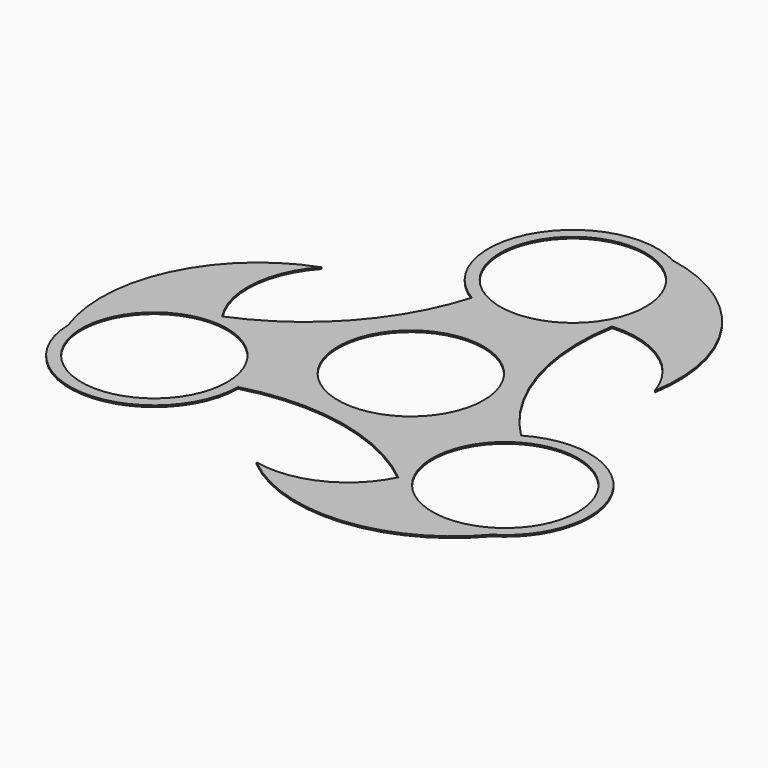
from build123d import *

# Parameters (mm, degrees)
F0_R     = 11.2
F1_DEPTH = 0.25


with BuildPart() as f1:
    # F0 (on Top) → F1 (new body)
    with BuildSketch(Plane.XY):
        with BuildLine():
            ThreePointArc((11.243032, 24.633988), (12.553076, 27.781021), (13, 31.160414))
            ThreePointArc((13, 31.160414), (11.172924, 37.806147), (6.205266, 42.58384))
            ThreePointArc((6.205266, 42.58384), (-11.321974, 37.548911), (-6.570071, 19.942831))
            ThreePointArc((-6.570071, 19.942831), (3.310722, 18.589053), (11.243032, 24.633988))
        make_face()
        with Locations((0, 31.160414)):
            Circle(F0_R, mode=Mode.SUBTRACT)
        with BuildLine():
            ThreePointArc((6.205266, 42.58384), (11.172924, 37.806147), (13, 31.160414))
            ThreePointArc((13, 31.160414), (12.553076, 27.781021), (11.243032, 24.633988))
            ThreePointArc((11.243032, 24.633988), (20.16491, 22.206844), (25.685808, 14.789929))
            ThreePointArc((25.685808, 14.789929), (21.662594, 32.693926), (6.205266, 42.58384))
        make_face()
        with BuildLine():
            ThreePointArc((20.433129, -4.352398), (12.296612, 9.017977), (11.243032, 24.633988))
            ThreePointArc((11.243032, 24.633988), (3.310722, 18.589053), (-6.570071, 19.942831))
            ThreePointArc((-6.570071, 19.942831), (-14.190564, 6.359224), (-26.944847, -2.580271))
            ThreePointArc((-26.944847, -2.580271), (-17.778886, -6.402277), (-13.98571, -15.580207))
            ThreePointArc((-13.98571, -15.580207), (-13.985915, -15.653237), (-13.98653, -15.726265))
            ThreePointArc((-13.98653, -15.726265), (1.62392, -15.259159), (15.697868, -22.028821))
            ThreePointArc((15.697868, -22.028821), (14.428475, -12.216303), (20.433129, -4.352398))
        make_face()
        Circle(F0_R, mode=Mode.SUBTRACT)
        with BuildLine():
            ThreePointArc((39.98571, -15.580207), (33.459366, -4.306708), (20.433129, -4.352398))
            ThreePointArc((20.433129, -4.352398), (14.428475, -12.216303), (15.697868, -22.028821))
            ThreePointArc((15.697868, -22.028821), (15.707601, -22.036816), (15.717332, -22.044815))
            ThreePointArc((15.717332, -22.044815), (15.714954, -22.049655), (15.712573, -22.054494))
            ThreePointArc((15.712573, -22.054494), (23.767322, -28.175523), (33.771118, -26.668861))
            ThreePointArc((33.771118, -26.668861), (38.326131, -21.935901), (39.98571, -15.580207))
        make_face()
        with Locations((26.98571, -15.580207)):
            Circle(F0_R, mode=Mode.SUBTRACT)
        with BuildLine():
            ThreePointArc((-13.98571, -15.580207), (-17.778886, -6.402277), (-26.944847, -2.580271))
            ThreePointArc((-26.944847, -2.580271), (-36.271667, -6.48235), (-39.982088, -15.88706))
            ThreePointArc((-39.982088, -15.88706), (-26.9053, -28.579958), (-13.98653, -15.726265))
            ThreePointArc((-13.98653, -15.726265), (-13.985915, -15.653237), (-13.98571, -15.580207))
        make_face()
        with Locations((-26.98571, -15.580207)):
            Circle(F0_R, mode=Mode.SUBTRACT)
        with BuildLine():
            ThreePointArc((-39.982088, -15.88706), (-36.271667, -6.48235), (-26.944847, -2.580271))
            ThreePointArc((-26.944847, -2.580271), (-29.303818, 6.359874), (-25.641029, 14.849569))
            ThreePointArc((-25.641029, 14.849569), (-39.12779, 2.428274), (-39.982088, -15.88706))
        make_face()
        with BuildLine():
            ThreePointArc((15.717332, -22.044815), (15.707601, -22.036816), (15.697868, -22.028821))
            ThreePointArc((15.697868, -22.028821), (15.705213, -22.041661), (15.712573, -22.054494))
            ThreePointArc((15.712573, -22.054494), (15.714954, -22.049655), (15.717332, -22.044815))
        make_face()
        with BuildLine():
            ThreePointArc((-0.029261, -29.630596), (17.47986, -35.099075), (33.771118, -26.668861))
            ThreePointArc((33.771118, -26.668861), (23.767322, -28.175523), (15.712573, -22.054494))
            ThreePointArc((15.712573, -22.054494), (9.149566, -28.560156), (-0.029261, -29.630596))
        make_face()
    extrude(amount=F1_DEPTH)


solid = f1.part
